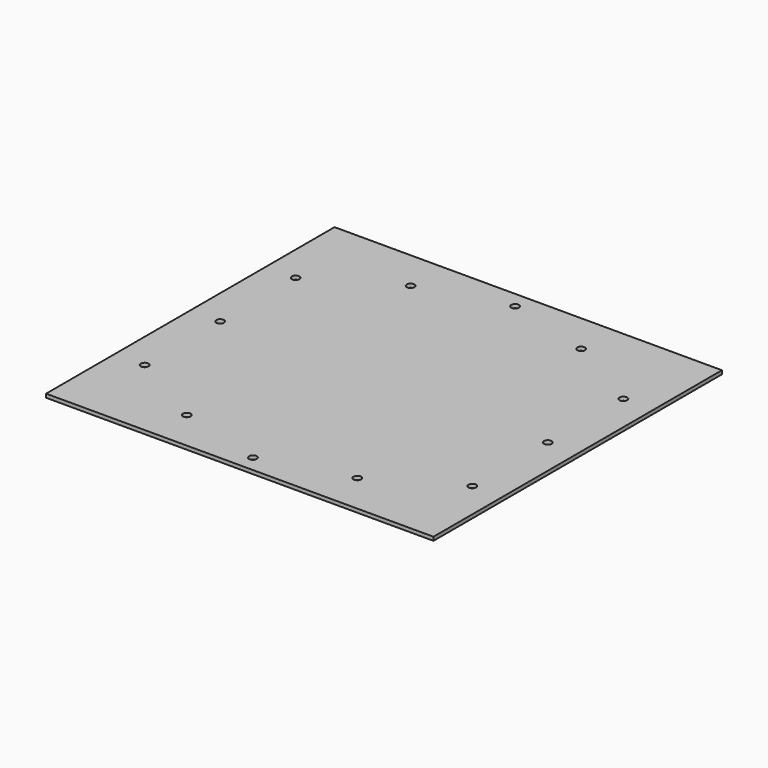
from build123d import *

# Parameters (mm, degrees)
F0_W     = 318
F0_H     = 296
F0_R     = 3.15
F1_DEPTH = 3


with BuildPart() as f1:
    # F0 (on Top) → F1 (new body)
    with BuildSketch(Plane.XY):
        Rectangle(F0_W, F0_H)
        with Locations((-134.5, -77.5)):
            Circle(F0_R, mode=Mode.SUBTRACT)
        with Locations((-70, -114.848814)):
            Circle(F0_R, mode=Mode.SUBTRACT)
        with Locations((0, -134.5)):
            Circle(F0_R, mode=Mode.SUBTRACT)
        with Locations((70, -114.848814)):
            Circle(F0_R, mode=Mode.SUBTRACT)
        with Locations((134.5, -77.5)):
            Circle(F0_R, mode=Mode.SUBTRACT)
        with Locations((-134.5, 0)):
            Circle(F0_R, mode=Mode.SUBTRACT)
        with Locations((-134.5, 77.5)):
            Circle(F0_R, mode=Mode.SUBTRACT)
        with Locations((-70, 114.848814)):
            Circle(F0_R, mode=Mode.SUBTRACT)
        with Locations((134.5, 0)):
            Circle(F0_R, mode=Mode.SUBTRACT)
        with Locations((0, 134.5)):
            Circle(F0_R, mode=Mode.SUBTRACT)
        with Locations((70, 114.848814)):
            Circle(F0_R, mode=Mode.SUBTRACT)
        with Locations((134.5, 77.5)):
            Circle(F0_R, mode=Mode.SUBTRACT)
    extrude(amount=F1_DEPTH)


solid = f1.part
